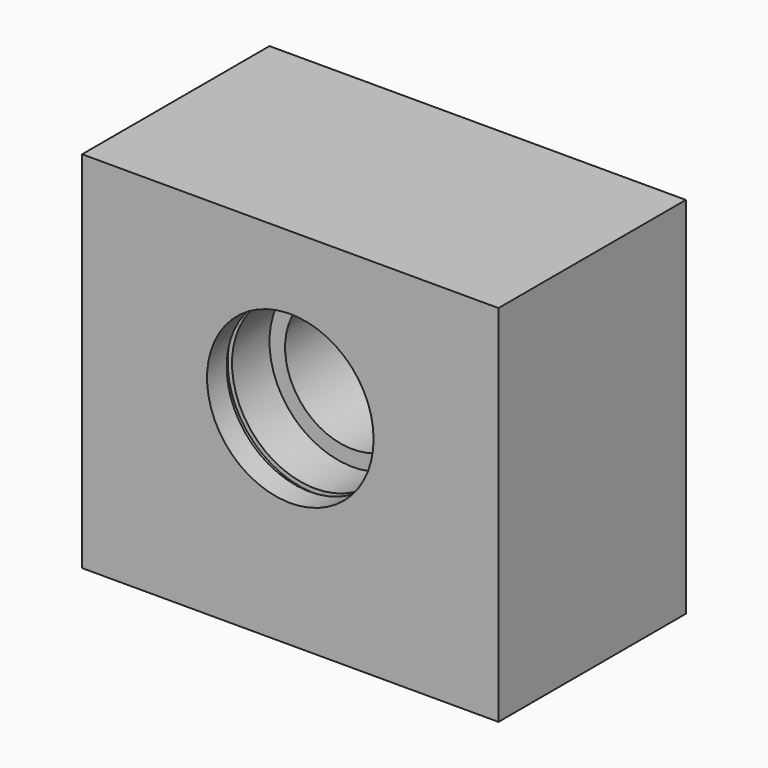
from build123d import *

# Parameters (mm, degrees)
F0_W      = 80
F0_H      = 70
F1_DEPTH  = 45
F2_R      = 13
F3_DEPTH  = 45.001
F4_R      = 16
F4_R_2    = 13
F5_DEPTH  = 15
F7_R      = 16.85
F8_DEPTH  = 1.3
F10_D     = 8.8
F10_DEPTH = 36
F10_TIP   = 2.6437867237


with BuildPart() as f1:
    # F0 (on Front) → F1 (new body)
    with BuildSketch(Plane.XZ):
        with Locations((40, 35)):
            Rectangle(F0_W, F0_H)
    extrude(amount=F1_DEPTH)

    # F2 (on face) → F3 (cut, through all)
    with BuildSketch(Plane.XZ.offset(45)):
        with Locations((40, 40)):
            Circle(F2_R)
    extrude(amount=-F3_DEPTH, mode=Mode.SUBTRACT)

    # F4 (on face) → F5 (cut)
    with BuildSketch(Plane.XZ.offset(45)):
        with Locations((40, 40)):
            Circle(F4_R)
        with Locations((40, 40)):
            Circle(F4_R_2, mode=Mode.SUBTRACT)
    extrude(amount=-F5_DEPTH, mode=Mode.SUBTRACT)

    # F7 (on offset) → F8 (cut)
    with BuildSketch(Plane.XZ.offset(39)):
        with Locations((40, 40)):
            Circle(F7_R)
    extrude(amount=F8_DEPTH, mode=Mode.SUBTRACT)

    # F10
    with Locations(Plane(origin=(0, 0, 0), x_dir=(1, 0, 0), z_dir=(0, 0, -1))):
        with Locations((15, 22.5), (65, 22.5)):
            Hole(F10_D / 2, depth=F10_DEPTH)
            with Locations((0, 0, -(F10_DEPTH + F10_TIP / 2))):  # 118° drill point
                Cone(0, F10_D / 2, F10_TIP, mode=Mode.SUBTRACT)


solid = f1.part
